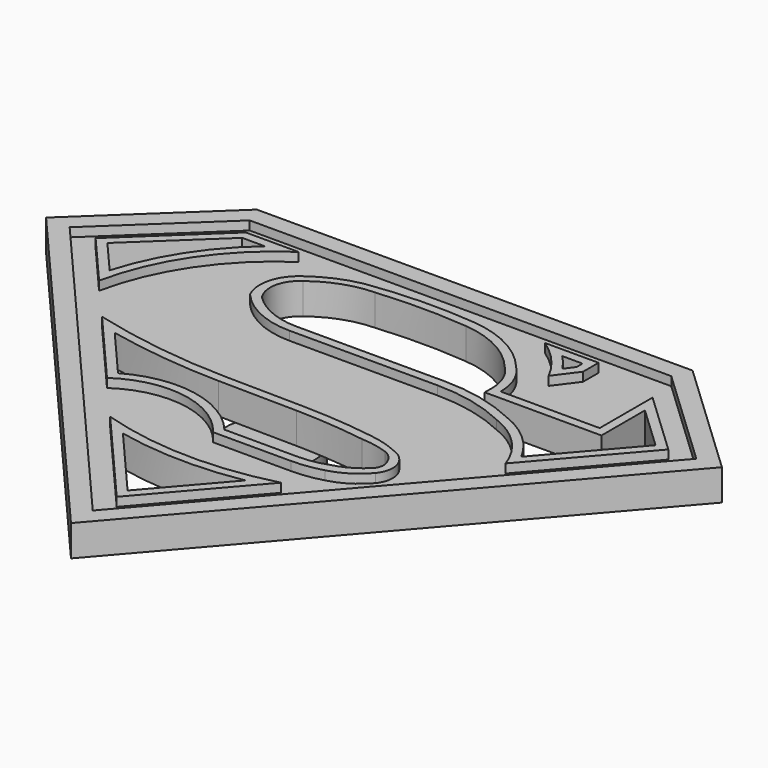
from build123d import *

# Parameters (mm, degrees)
F1_DEPTH = 2.5
F3_DEPTH = 1
F4_DEPTH = 2.5
F5_R     = 5
F6_DEPTH = 2.5


with BuildPart() as f1:
    # F0 (on Top) → F1 (new body)
    with BuildSketch(Plane.XY):
        Polygon((24.5, 28.75), (-24.5, 28.75), (-38, 16), (0, -28), (38, 16), align=None)
    extrude(amount=F1_DEPTH)

    # F2 (on face) → F3 (join)
    with BuildSketch(Plane.XY.offset(2.5)):
        Polygon((-24.5, 28.75), (-38, 16), (0, -28), (38, 16), (24.5, 28.75), align=None)
        Polygon((0, -24.9401175045), (-35.2360005395, 15.8594620676), (-23.7048427287, 26.75), (23.7048427287, 26.75), (35.2360005395, 15.8594620676), align=None, mode=Mode.SUBTRACT)
        with BuildLine():
            Line((22.7133916393, 4.6985002576), (32.2128970418, 15.6979275658))
            Line((32.2128970418, 15.6979275658), (24.9667909899, 22.5414721704))
            Line((24.9667909899, 22.5414721704), (24.9667909899, 15.1083281487))
            Line((24.9667909899, 15.1083281487), (13.8348590806, 15.1083281487))
            ThreePointArc((13.8348590806, 15.1083281487), (13.3444397283, 17.5599116804), (11.9486611802, 19.6341766584))
            ThreePointArc((11.9486611802, 19.6341766584), (8.2805304238, 22.6022293507), (3.7511971493, 23.9249765365))
            ThreePointArc((3.7511971493, 23.9249765365), (-2.3107858295, 24.1330407686), (-8.3545236117, 23.6190738634))
            ThreePointArc((-8.3545236117, 23.6190738634), (-11.0235311437, 22.7778125064), (-13.4403547272, 21.3670376688))
            ThreePointArc((-13.4403547272, 21.3670376688), (-15.212702444, 18.8538109385), (-14.9003509432, 15.7944055113))
            ThreePointArc((-14.9003509432, 15.7944055113), (-11.7357211664, 13.4067953643), (-7.8630894423, 12.5592770055))
            Line((-7.8630894423, 12.5592770055), (8.745636791, 12.5592770055))
            ThreePointArc((8.745636791, 12.5592770055), (12.9047041932, 12.0930390125), (16.8573021999, 10.7174705771))
            ThreePointArc((16.8573021999, 10.7174705771), (20.4582682574, 8.3626966604), (22.7133916393, 4.6985002576))
        make_face()
        with BuildLine():
            Line((25.9667909899, 14.1083281487), (25.9667909899, 20.2215367922))
            Line((25.9667909899, 20.2215367922), (30.8308973116, 15.6276585996))
            Line((30.8308973116, 15.6276585996), (22.9958176649, 6.5554611139))
            ThreePointArc((22.9958176649, 6.5554611139), (20.586748465, 9.6210283517), (17.2501383205, 11.6380433846))
            ThreePointArc((17.2501383205, 11.6380433846), (13.1050428541, 13.0729920976), (8.745636791, 13.5592770055))
            Line((8.745636791, 13.5592770055), (-7.8630894423, 13.5592770055))
            ThreePointArc((-7.8630894423, 13.5592770055), (-11.026529119, 14.1881083225), (-13.7089760974, 15.9789901227))
            ThreePointArc((-13.7089760974, 15.9789901227), (-14.2725466885, 18.498722854), (-12.8559581935, 20.6574127078))
            ThreePointArc((-12.8559581935, 20.6574127078), (-9.8904154712, 22.2976951419), (-6.5607260913, 22.9286774993))
            ThreePointArc((-6.5607260913, 22.9286774993), (-1.4477418736, 23.1604030388), (3.6652423441, 22.9286774993))
            ThreePointArc((3.6652423441, 22.9286774993), (7.8388006263, 21.704705466), (11.2106185406, 18.9574267715))
            ThreePointArc((11.2106185406, 18.9574267715), (12.4121725039, 17.1972104778), (12.8348590806, 15.1083281487))
            Line((12.8348590806, 15.1083281487), (12.8348590806, 14.1083281487))
            Line((12.8348590806, 14.1083281487), (25.9667909899, 14.1083281487))
        make_face(mode=Mode.SUBTRACT)
        with BuildLine():
            ThreePointArc((-6.7919120193, 2.210722072), (-14.655775713, 2.8051401774), (-22.3894476737, 4.349161901))
            Line((-22.3894476737, 4.349161901), (-14.7787371056, -4.4632398095))
            ThreePointArc((-14.7787371056, -4.4632398095), (-7.466030983, -2.8237135208), (-1.0576881468, -6.709181238))
            Line((-1.0576881468, -6.709181238), (7.7347876504, -6.709181238))
            ThreePointArc((7.7347876504, -6.709181238), (9.4624521238, -6.5873541357), (11.1559238285, -6.2242839485))
            ThreePointArc((11.1559238285, -6.2242839485), (13.2256284307, -5.3326624688), (14.9340350181, -3.8629642222))
            ThreePointArc((14.9340350181, -3.8629642222), (15.5006827522, -2.59072721), (15.3472675011, -1.2064799666))
            ThreePointArc((15.3472675011, -1.2064799666), (14.6061136564, -0.1669001783), (13.4981097654, 0.4674203519))
            ThreePointArc((13.4981097654, 0.4674203519), (11.8530830846, 1.0796158365), (10.1323601002, 1.4260382698))
            ThreePointArc((10.1323601002, 1.4260382698), (6.1429657723, 1.8869809032), (2.1316759441, 2.0800848343))
            Line((2.1316759441, 2.0800848343), (-6.7919120193, 2.210722072))
        make_face()
        with BuildLine():
            Line((-14.5836983502, -3.1591329101), (-19.6073624646, 2.6577413276))
            ThreePointArc((-19.6073624646, 2.6577413276), (-13.2424037369, 1.6206816287), (-6.8065499924, 1.2108292129))
            Line((-6.8065499924, 1.2108292129), (2.1170379709, 1.0801919752))
            ThreePointArc((2.1170379709, 1.0801919752), (6.0614887398, 0.8903056837), (9.9844088472, 0.4370436152))
            ThreePointArc((9.9844088472, 0.4370436152), (11.5520586297, 0.255045089), (13.0727859214, -0.1669001783))
            ThreePointArc((13.0727859214, -0.1669001783), (13.8649438936, -0.7048016123), (14.3747050315, -1.5153543791))
            ThreePointArc((14.3747050315, -1.5153543791), (14.560516724, -2.4704828367), (14.1075737774, -3.3316675108))
            ThreePointArc((14.1075737774, -3.3316675108), (12.5743410862, -4.4628960627), (10.8017250896, -5.16169006))
            ThreePointArc((10.8017250896, -5.16169006), (9.2924984584, -5.5712350402), (7.7347876504, -5.709181238))
            Line((7.7347876504, -5.709181238), (-0.5720290784, -5.709181238))
            ThreePointArc((-0.5720290784, -5.709181238), (-7.1112455745, -1.8702452534), (-14.5836983502, -3.1591329101))
        make_face(mode=Mode.SUBTRACT)
        with BuildLine():
            ThreePointArc((9.6052747881, -10.4793192543), (-0.2005916003, -11.6422682343), (-9.9472034322, -10.0576472208))
            Line((-9.9472034322, -10.0576472208), (0.0111213288, -21.5883390493))
            Line((0.0111213288, -21.5883390493), (9.6052747881, -10.4793192543))
        make_face()
        with BuildLine():
            Line((0.0111213288, -20.0583978016), (-7.0874587678, -11.8389892686))
            ThreePointArc((-7.0874587678, -11.8389892686), (-0.1135902043, -12.6442154046), (6.8853861251, -12.0987227742))
            Line((6.8853861251, -12.0987227742), (0.0111213288, -20.0583978016))
        make_face(mode=Mode.SUBTRACT)
        with BuildLine():
            Line((-22.5385466175, 24.7468773517), (-32.1588185263, 15.6610649934))
            Line((-32.1588185263, 15.6610649934), (-26.8728109728, 9.5404246683))
            ThreePointArc((-26.8728109728, 9.5404246683), (-23.2437339896, 18.1532901464), (-16.6198182851, 24.7468773517))
            Line((-16.6198182851, 24.7468773517), (-22.5385466175, 24.7468773517))
        make_face()
        with BuildLine():
            Line((-27.3773424364, 11.6545602424), (-30.7768187961, 15.5907960272))
            Line((-30.7768187961, 15.5907960272), (-22.1409679819, 23.7468773517))
            Line((-22.1409679819, 23.7468773517), (-19.5902141433, 23.7468773517))
            ThreePointArc((-19.5902141433, 23.7468773517), (-24.3653920595, 18.2684544483), (-27.3773424364, 11.6545602424))
        make_face(mode=Mode.SUBTRACT)
        with BuildLine():
            Line((17.1290766448, 24.7468773517), (11.0983193584, 24.7468773517))
            ThreePointArc((11.0983193584, 24.7468773517), (13.4752527233, 22.6732988786), (15.2575302327, 20.0707949334))
            Line((15.2575302327, 20.0707949334), (17.1290766448, 22.5761607289))
            Line((17.1290766448, 22.5761607289), (17.1290766448, 24.7468773517))
        make_face()
        with BuildLine():
            Line((16.1290766448, 22.9084316287), (15.3555178299, 21.8728987756))
            ThreePointArc((15.3555178299, 21.8728987756), (14.6412526921, 22.843669283), (13.8432644406, 23.7468773517))
            Line((13.8432644406, 23.7468773517), (16.1290766448, 23.7468773517))
            Line((16.1290766448, 23.7468773517), (16.1290766448, 22.9084316287))
        make_face(mode=Mode.SUBTRACT)
    extrude(amount=F3_DEPTH)

    # F4 (cut): faces of the model
    f4_faces = [f1.faces().sort_by_distance(p)[0] for p in [
        (5.2313020526, 16.7100656125, 2.5),
        (15.2310227717, 23.0949791253, 2.5),
        (-25.9928017911, 17.89640638, 2.5),
        (-0.20025716, -1.5946330551, 2.5),
        (-0.0583233398, -14.9701076081, 2.5),
    ]]
    extrude(f4_faces, amount=-F4_DEPTH, mode=Mode.SUBTRACT)

    # F5 (on Top) → F6 (join)
    with BuildSketch(Plane.XY):
        Circle(F5_R)
    extrude(amount=-F6_DEPTH)


solid = f1.part
